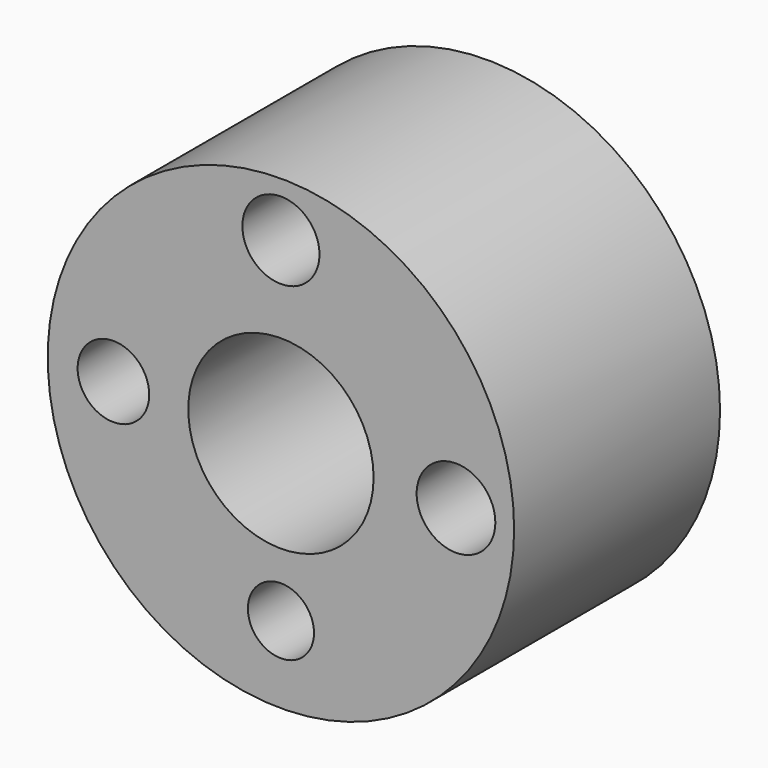
from build123d import *

# Parameters (mm, degrees)
F0_R     = 27.184739
F0_R_2   = 3.853519
F0_R_3   = 4.173049
F0_R_4   = 10.80107
F0_R_5   = 4.586408
F0_R_6   = 4.49384
F1_DEPTH = 30


with BuildPart() as f1:
    # F0 (on Front) → F1 (new body)
    with BuildSketch(Plane.XZ):
        Circle(F0_R)
        with Locations((0, -18.20411)):
            Circle(F0_R_2, mode=Mode.SUBTRACT)
        with Locations((-19.525377, 0)):
            Circle(F0_R_3, mode=Mode.SUBTRACT)
        Circle(F0_R_4, mode=Mode.SUBTRACT)
        with Locations((20.40622, 0)):
            Circle(F0_R_5, mode=Mode.SUBTRACT)
        with Locations((0, 20.846643)):
            Circle(F0_R_6, mode=Mode.SUBTRACT)
    extrude(amount=F1_DEPTH)


solid = f1.part
